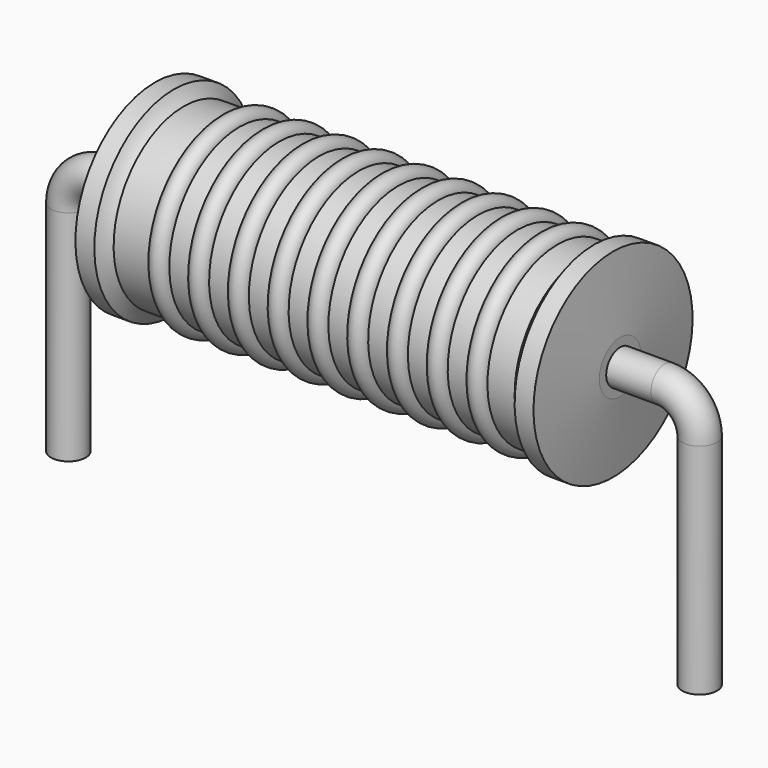
from build123d import *

# Parameters (mm, degrees)
SKETCH_R = 0.35


with BuildPart() as sweep_body:
    # Sweep: sweep along a path in Sketch001
    with BuildLine(Plane.XZ) as sweep_path:
        Line((0, -3), (0, 1.4))
        ThreePointArc((0, 1.4), (0.205029, 1.894978), (0.70001, 2.1))
        Line((0.70001, 2.1), (12, 2.1))
        ThreePointArc((12, 2.1), (12.494975, 1.894975), (12.7, 1.4))
        Line((12.7, 1.4), (12.7, -3))
    # Sketch → Sweep (sweep)
    with BuildSketch(Plane.XY.offset(-2)):
        Circle(SKETCH_R)
    sweep(path=sweep_path.line)


with BuildPart() as revolution001:
    # Sketch003 → Revolution001 (revolve)
    with BuildSketch(Plane.XZ):
        with BuildLine():
            ThreePointArc((3.445, 3.8245), (3.245, 4.0245), (3.045, 3.8245))
            Line((2.645, 3.8245), (3.045, 3.8245))
            Line((2.645, 3.8245), (2.645, 3.4245))
            Line((2.645, 3.4245), (10.245, 3.4245))
            Line((10.245, 3.4245), (10.245, 3.8245))
            Line((9.845, 3.8245), (10.245, 3.8245))
            ThreePointArc((9.845, 3.8245), (9.645, 4.0245), (9.445, 3.8245))
            Line((9.045, 3.8245), (9.445, 3.8245))
            ThreePointArc((9.045, 3.8245), (8.845, 4.0245), (8.645, 3.8245))
            Line((8.245, 3.8245), (8.645, 3.8245))
            ThreePointArc((8.245, 3.8245), (8.045, 4.0245), (7.845, 3.8245))
            Line((7.445, 3.8245), (7.845, 3.8245))
            ThreePointArc((7.445, 3.8245), (7.245, 4.0245), (7.045, 3.8245))
            Line((6.645, 3.8245), (7.045, 3.8245))
            ThreePointArc((6.645, 3.8245), (6.445, 4.0245), (6.245, 3.8245))
            Line((5.845, 3.8245), (6.245, 3.8245))
            ThreePointArc((5.845, 3.8245), (5.645, 4.0245), (5.445, 3.8245))
            Line((5.045, 3.8245), (5.445, 3.8245))
            ThreePointArc((5.045, 3.8245), (4.845, 4.0245), (4.645, 3.8245))
            Line((4.245, 3.8245), (4.645, 3.8245))
            ThreePointArc((4.245, 3.8245), (4.045, 4.0245), (3.845, 3.8245))
            Line((3.445, 3.8245), (3.845, 3.8245))
        make_face()
    revolve(axis=Axis((1.8375, 0, 2.1), (1, 0, 0)))


with BuildPart() as obj1:
    # Sketch002 → Revolution (revolve)
    with BuildSketch(Plane.XZ):
        with BuildLine():
            Line((1.7425, 4.1), (2.1225, 4.1))
            ThreePointArc((2.1225, 4.1), (2.209345, 3.971117), (2.3205, 3.8625))
            Line((2.3205, 3.8625), (10.3875, 3.8625))
            ThreePointArc((10.3875, 3.8625), (10.494738, 3.971459), (10.5775, 4.1))
            Line((10.5775, 4.1), (10.9575, 4.1))
            ThreePointArc((11.1, 2.625), (11.029979, 3.362619), (10.9575, 4.1))
            Line((11.1, 2.1), (11.1, 2.625))
            Line((1.6, 2.1), (11.1, 2.1))
            Line((1.6, 2.1), (1.6, 2.625))
            ThreePointArc((1.7425, 4.1), (1.670021, 3.362619), (1.6, 2.625))
        make_face()
    revolve(axis=Axis((1.6, 0, 2.1), (1, 0, 0)))

    # obj1: union Sweep body, Revolution001
    add(sweep_body.part)
    add(revolution001.part)


solid = obj1.part
